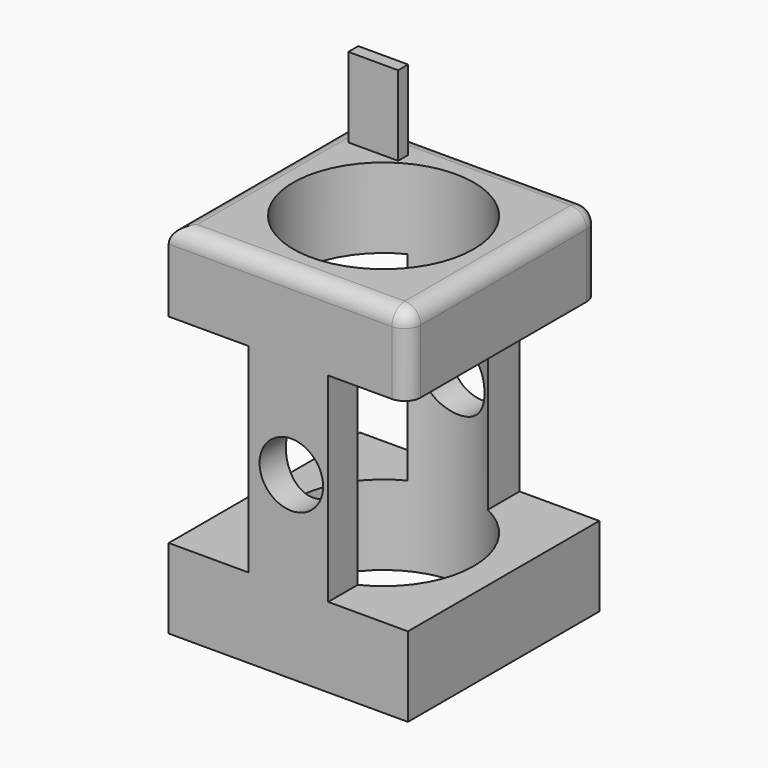
from build123d import *

# Parameters (mm, degrees)
F1_DEPTH  = 76.2
F2_R      = 16.759679
F3_DEPTH  = 50.801
F4_R      = 10.122636
F5_DEPTH  = 76.201
F6_R      = 28.758391
F7_DEPTH  = 114.301
F8_R      = 5.08
F10_W     = 15.888512
F10_H     = 3.972126
F11_DEPTH = 25.4
F13_DEPTH = 2.54


with BuildPart() as f1:
    # F0 (on Front) → F1 (new body)
    with BuildSketch(Plane.XZ):
        Polygon((-44.173401, -27.656091), (-44.173401, -53.056091), (32.026599, -53.056091), (32.026599, -27.656091), (6.626599, -27.656091), (6.626599, 35.843909), (32.026599, 35.843909), (32.026599, 61.243909), (-44.173401, 61.243909), (-44.173401, 35.843909), (-18.773401, 35.843909), (-18.773401, -27.656091), align=None)
    extrude(amount=F1_DEPTH)

    # F2 (on face) → F3 (cut, through all)
    with BuildSketch(Plane.YZ.offset(6.626599)):
        with Locations((-43.022785, 3.559439)):
            Circle(F2_R)
    extrude(amount=-F3_DEPTH, mode=Mode.SUBTRACT)

    # F4 (on face) → F5 (cut, through all)
    with BuildSketch(Plane.XZ.offset(76.2)):
        with Locations((-5.116025, 4.186992)):
            Circle(F4_R)
    extrude(amount=-F5_DEPTH, mode=Mode.SUBTRACT)

    # F6 (on face) → F7 (cut, through all)
    with BuildSketch(Plane(origin=(0, 0, -53.056091), x_dir=(1, 0, 0), z_dir=(0, 0, -1))):
        with Locations((-5.880812, 38.534798)):
            Circle(F6_R)
    extrude(amount=-F7_DEPTH, mode=Mode.SUBTRACT)

    # F8
    f8_edges = [f1.edges().sort_by_distance(p)[0] for p in [
        (-6.073401, -76.2, 61.243909),
        (32.026599, -38.1, 61.243909),
        (32.026599, -76.2, 48.543909),
        (-6.073401, 0, 61.243909),
        (32.026599, 0, 48.543909),
        (-44.173401, 0, 48.543909),
        (-44.173401, -38.1, 61.243909),
    ]]
    fillet(f8_edges, radius=F8_R)

    # F10 (on face) → F11 (join)
    with BuildSketch(Plane.XY.offset(61.243909)):
        with Locations((-29.480584, -11.146277)):
            Rectangle(F10_W, F10_H)
    extrude(amount=F11_DEPTH)

    # F12 (on face) → F13 (cut)
    with BuildSketch(Plane(origin=(0, -9.160214, 0), x_dir=(-1, 0, 0), z_dir=(0, 1, 0))):
        Polygon((33.161537, 67.962763), (36.611519, 74.066582), (33.050448, 80.106264), (26.039395, 80.042126), (22.589412, 73.938308), (26.150483, 67.898626), align=None)
    extrude(amount=-F13_DEPTH, mode=Mode.SUBTRACT)


solid = f1.part
